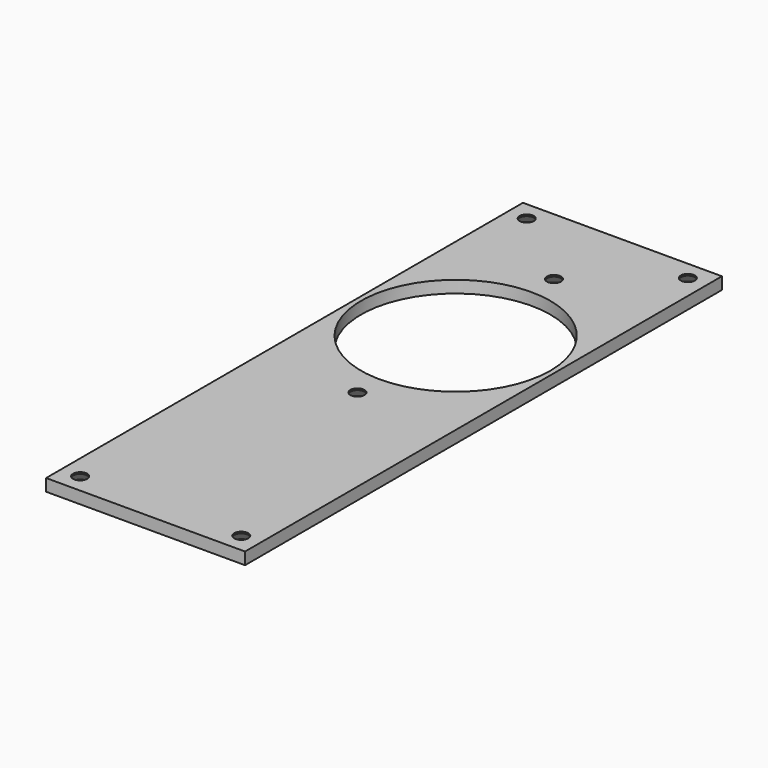
from build123d import *

# Parameters (mm, degrees)
SKETCH_W     = 49.4
SKETCH_H     = 148
SKETCH_R     = 1.75
SKETCH_R_2   = 23.5
PAD_DEPTH    = 3
SKETCH001_R  = 3.1
POCKET_DEPTH = 2.1
CHAMFER_SIZE = 2.6


with BuildPart() as part:
    # Sketch → Pad (new body)
    with BuildSketch(Plane.XY):
        with Locations((24.7, 74)):
            Rectangle(SKETCH_W, SKETCH_H)
        with Locations((24.7, 126.745966)):
            Circle(SKETCH_R, mode=Mode.SUBTRACT)
        with Locations((24.7, 65.745966)):
            Circle(SKETCH_R, mode=Mode.SUBTRACT)
        with Locations((24.7, 96.245966)):
            Circle(SKETCH_R_2, mode=Mode.SUBTRACT)
        with Locations((4.7, 143.3)):
            Circle(SKETCH_R, mode=Mode.SUBTRACT)
        with Locations((44.7, 143.3)):
            Circle(SKETCH_R, mode=Mode.SUBTRACT)
        with Locations((4.7, 4.7)):
            Circle(SKETCH_R, mode=Mode.SUBTRACT)
        with Locations((44.7, 4.7)):
            Circle(SKETCH_R, mode=Mode.SUBTRACT)
    extrude(amount=PAD_DEPTH)

    # Sketch001 → Pocket (cut)
    with BuildSketch(Plane.XY):
        with Locations((24.7, 142)):
            Circle(SKETCH001_R)
        with Locations((24.7, 48)):
            Circle(SKETCH001_R)
        with Locations((24.7, 6)):
            Circle(SKETCH001_R)
    extrude(amount=POCKET_DEPTH, mode=Mode.SUBTRACT)

    # Chamfer
    chamfer_edges = [part.edges().sort_by_distance(p)[0] for p in [
        (42.95, 143.3, 0),
        (2.95, 143.3, 0),
        (2.95, 4.7, 0),
        (22.95, 65.745966, 0),
        (22.95, 126.745966, 0),
        (42.95, 4.7, 0),
    ]]
    chamfer(chamfer_edges, length=CHAMFER_SIZE)


solid = part.part
